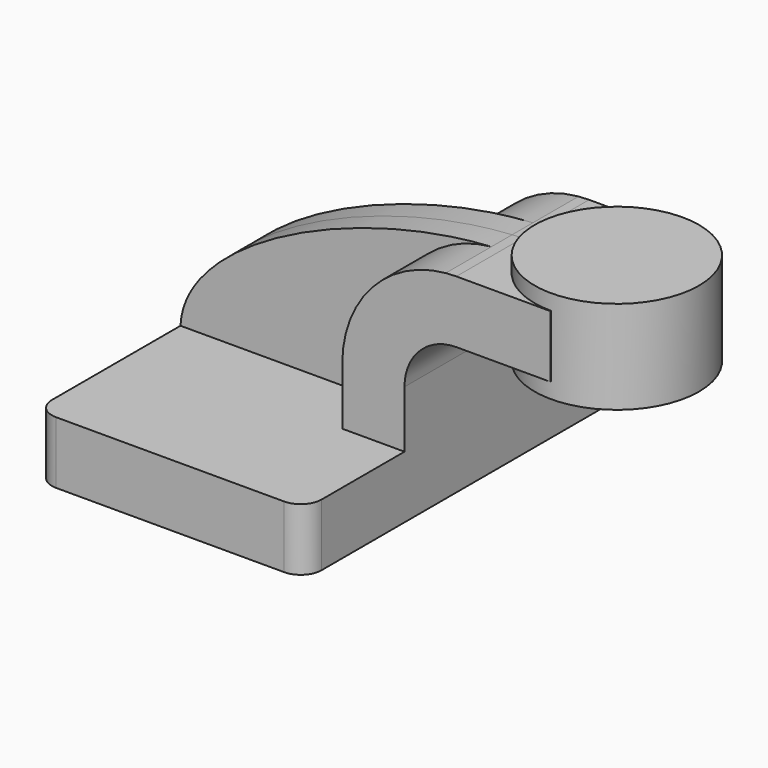
from build123d import *

# Parameters (mm, degrees)
F1_DEPTH = 63.5
F0_W     = 25.6348975327
F0_H     = 19.05
F2_DEPTH = 25.4
F3_DEPTH = 7.9375
F5_R     = 6.35


with BuildPart() as f1:
    # F0 (on Front) → F1 (new body, symmetric)
    with BuildSketch(Plane.XZ):
        Polygon((-41.275, 9.525), (-41.275, -9.525), (41.275, -9.525), (41.275, 9.525), (22.225, 9.525), align=None)
    extrude(amount=F1_DEPTH, both=True)

    # F0 (on Front) → F2 (join, symmetric)
    with BuildSketch(Plane.XZ):
        with Locations((73.1424487663, 52.4002)):
            Rectangle(F0_W, F0_H)
        with BuildLine():
            Line((22.225, 9.525), (41.275, 9.525))
            Line((41.275, 9.525), (41.275, 27.0002))
            ThreePointArc((41.275, 27.0002), (45.9246798487, 38.2255201513), (57.15, 42.8752))
            Line((57.15, 42.8752), (60.325, 42.8752))
            Line((60.325, 42.8752), (60.325, 61.9252))
            Line((60.325, 61.9252), (57.15, 61.9252))
            add(Edge.make_bspline(
                [(53.9130436504, 61.7748709343), (54.9990019691, 61.8396052695), (56.0783362522, 61.8898327624), (57.15, 61.9252)],
                knots=[108.6972179198, 108.6972179198, 108.6972179198, 108.6972179198, 111.5045361635, 111.5045361635, 111.5045361635, 111.5045361635], degree=3))
            ThreePointArc((53.9130436504, 61.7748709343), (31.3352142609, 50.5236449485), (22.225, 27.0002))
            Line((22.225, 27.0002), (22.225, 9.525))
        make_face()
    extrude(amount=F2_DEPTH, both=True)

    # F0 (on Front) → F3 (join, symmetric)
    with BuildSketch(Plane.XZ):
        with BuildLine():
            add(Edge.make_bspline(
                [(-41.275, 9.525), (-40.1125262679, 35.0135860213), (11.8655670999, 59.2684069252), (53.9130436504, 61.7748709343)],
                knots=[0, 0, 0, 0, 108.6972179198, 108.6972179198, 108.6972179198, 108.6972179198], degree=3))
            Line((-41.275, 9.525), (22.225, 9.525))
            Line((22.225, 9.525), (22.225, 27.0002))
            ThreePointArc((22.225, 27.0002), (31.3352142609, 50.5236449485), (53.9130436504, 61.7748709343))
        make_face()
    extrude(amount=F3_DEPTH, both=True)

    # F0 (on Front) → F4 (revolve)
    with BuildSketch(Plane.XZ):
        Polygon((85.9598975327, 66.675), (85.9598975327, 61.9252), (85.9598975327, 42.8752), (85.9598975327, 38.1), (111.125, 38.1), (111.125, 66.675), align=None)
    revolve(axis=Axis((85.9598975327, 0, 52.3875), (0, 0, 1)))

    # F5
    f5_edges = [f1.edges().sort_by_distance(p)[0] for p in [
        (41.275, -63.5, 0),
        (-41.275, -63.5, 0),
        (-41.275, 63.5, 0),
        (41.275, 63.5, 0),
    ]]
    fillet(f5_edges, radius=F5_R)


solid = f1.part
